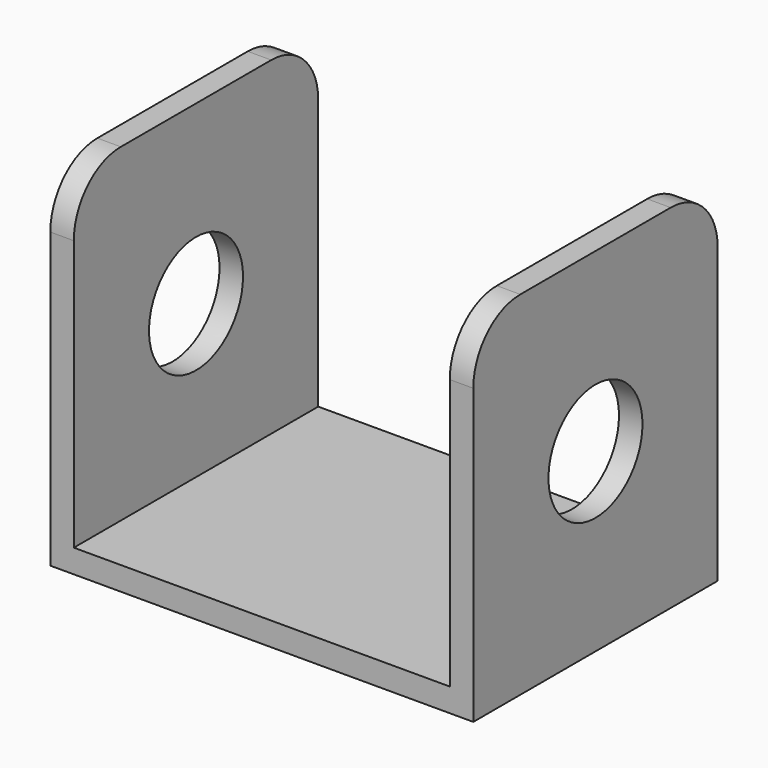
from build123d import *

# Parameters (mm, degrees)
F1_DEPTH = 26
F2_R     = 5
F3_DEPTH = 40
F4_R     = 5


with BuildPart() as f1:
    # F0 (on Front) → F1 (new body)
    with BuildSketch(Plane.XZ):
        Polygon((-18, -15), (18, -15), (18, 15), (16, 15), (16, -13), (-16, -13), (-16, 15), (-18, 15), align=None)
    extrude(amount=F1_DEPTH)

    # F2 (on face) → F3 (cut)
    with BuildSketch(Plane.YZ.offset(18)):
        with Locations((-13, 0)):
            Circle(F2_R)
    extrude(amount=-F3_DEPTH, mode=Mode.SUBTRACT)

    # F4
    f4_edges = [f1.edges().sort_by_distance(p)[0] for p in [
        (-17, 0, 15),
        (17, 0, 15),
        (-17, -26, 15),
        (17, -26, 15),
    ]]
    fillet(f4_edges, radius=F4_R)


solid = f1.part
